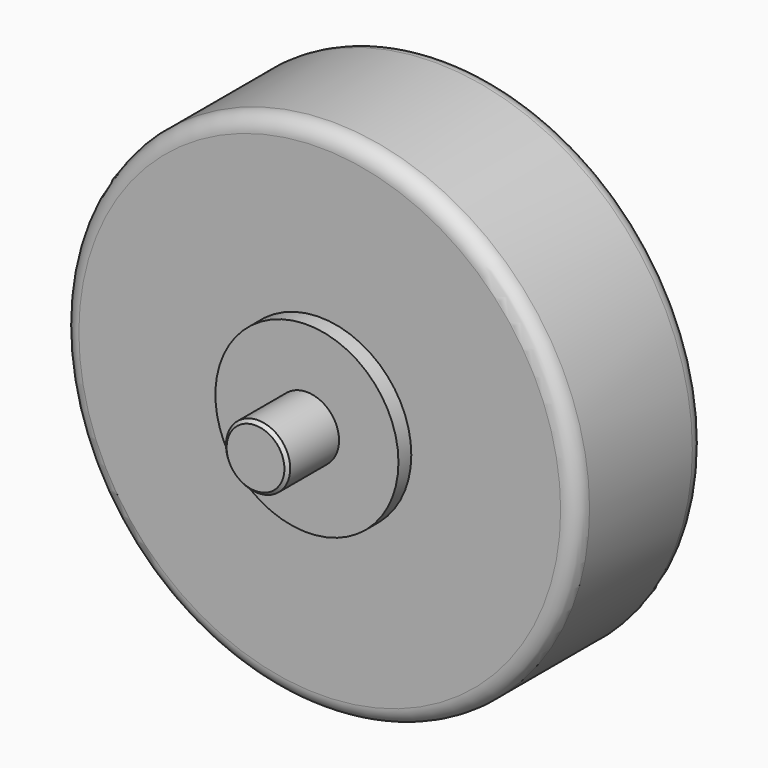
from build123d import *

# Parameters (mm, degrees)
F0_R     = 80
F0_R_2   = 75
F0_R_3   = 28.5
F1_DEPTH = 25
F0_R_4   = 10
F2_DEPTH = 30
F3_DEPTH = 50
F4_R     = 5
F5_SIZE  = 1


with BuildPart() as f1:
    # F0 (on Front) → F1 (new body, symmetric)
    with BuildSketch(Plane.XZ):
        Circle(F0_R)
        Circle(F0_R_2, mode=Mode.SUBTRACT)
        Circle(F0_R_2)
        Circle(F0_R_3, mode=Mode.SUBTRACT)
    extrude(amount=F1_DEPTH, both=True)

    # F0 (on Front) → F2 (join, symmetric)
    with BuildSketch(Plane.XZ):
        Circle(F0_R_3)
        Circle(F0_R_4, mode=Mode.SUBTRACT)
    extrude(amount=F2_DEPTH, both=True)

    # F0 (on Front) → F3 (join, symmetric)
    with BuildSketch(Plane.XZ):
        Circle(F0_R_4)
    extrude(amount=F3_DEPTH, both=True)

    # F4
    f4_edges = [f1.edges().sort_by_distance(p)[0] for p in [
        (-80, -25, 0),
        (-80, 25, 0),
    ]]
    fillet(f4_edges, radius=F4_R)

    # F5
    f5_edges = [f1.edges().sort_by_distance(p)[0] for p in [
        (-10, -50, 0),
        (-10, 50, 0),
    ]]
    chamfer(f5_edges, length=F5_SIZE)


solid = f1.part
